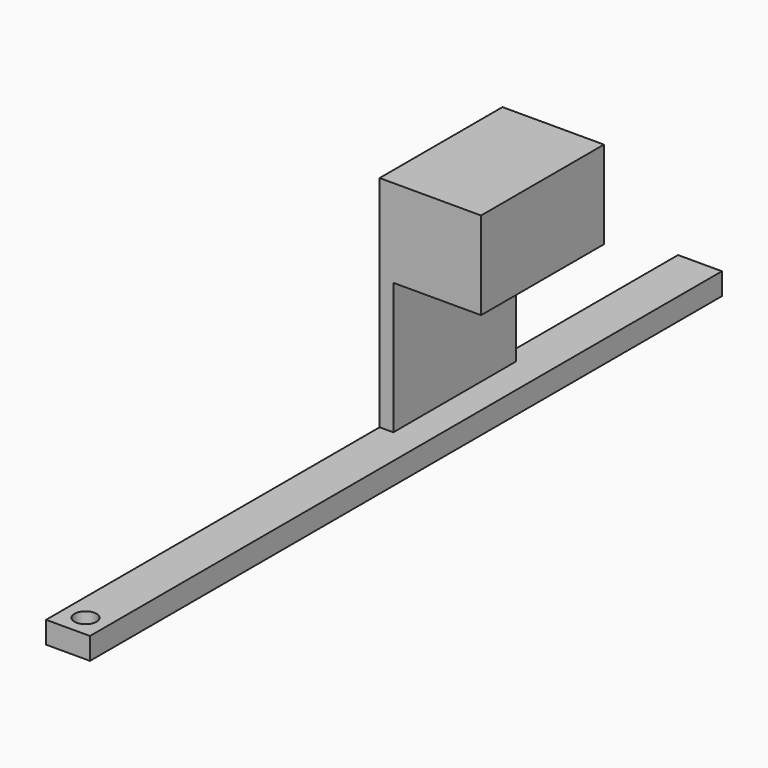
from build123d import *

# Parameters (mm, degrees)
F0_W     = 25.4
F0_H     = 12.7
F1_DEPTH = 457.2
F2_W     = 7.9248
F2_H     = 88.9
F3_DEPTH = 127
F4_W     = 88.9
F4_H     = 50.8
F5_DEPTH = 50.8
F6_R     = 6.35
F7_DEPTH = 25.4


with BuildPart() as f1:
    # F0 (on Front) → F1 (new body)
    with BuildSketch(Plane.XZ):
        Rectangle(F0_W, F0_H)
    extrude(amount=F1_DEPTH)

    # F2 (on face) → F3 (join)
    with BuildSketch(Plane.XY.offset(6.35)):
        with Locations((-8.7376, -171.45)):
            Rectangle(F2_W, F2_H)
    extrude(amount=F3_DEPTH)

    # F4 (on face) → F5 (join)
    with BuildSketch(Plane.YZ.offset(-4.7752)):
        with Locations((-171.45, 107.95)):
            Rectangle(F4_W, F4_H)
    extrude(amount=F5_DEPTH)

    # F6 (on face) → F7 (cut)
    with BuildSketch(Plane.XY.offset(6.35)):
        with Locations((0, -444.5)):
            Circle(F6_R)
    extrude(amount=-F7_DEPTH, mode=Mode.SUBTRACT)


solid = f1.part
